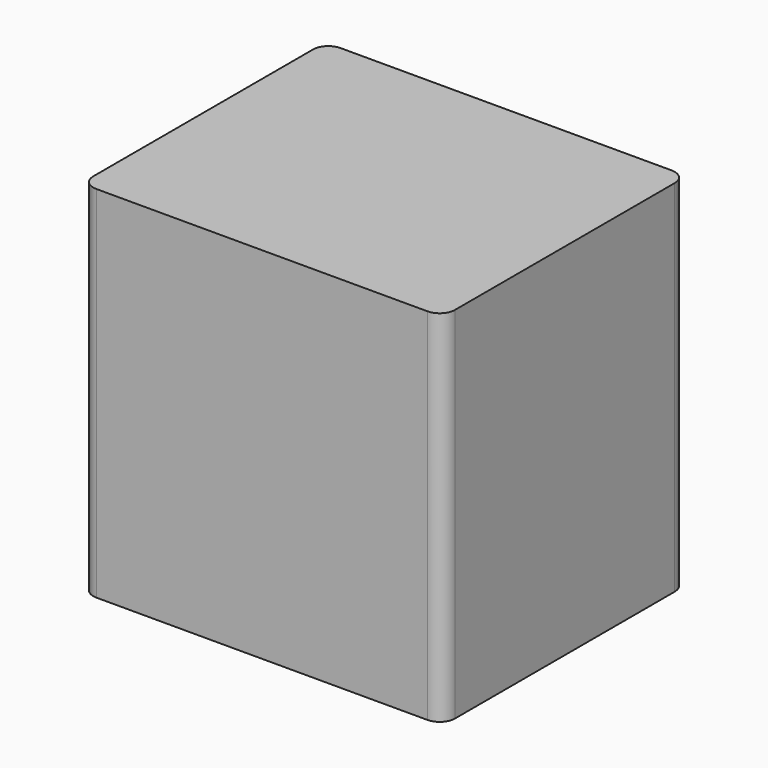
from build123d import *

# Parameters (mm, degrees)
F0_W     = 120.4
F0_H     = 101.6
F1_DEPTH = 119.75
F2_T     = -2.54
F3_R     = 5.08


with BuildPart() as f1:
    # F0 (on Top) → F1 (new body)
    with BuildSketch(Plane.XY):
        with Locations((1.22794, -2.425997)):
            Rectangle(F0_W, F0_H)
    extrude(amount=-F1_DEPTH)

    # F2
    f2_openings = [f1.faces().sort_by_distance(p)[0] for p in [
        (1.22794, -2.425997, -119.75),
    ]]
    offset(amount=F2_T, openings=f2_openings)

    # F3
    f3_edges = [f1.edges().sort_by_distance(p)[0] for p in [
        (61.42794, 48.374003, -59.875),
        (-58.97206, 48.374003, -59.875),
        (-58.97206, -53.225997, -59.875),
        (61.42794, -53.225997, -59.875),
    ]]
    fillet(f3_edges, radius=F3_R)


solid = f1.part
